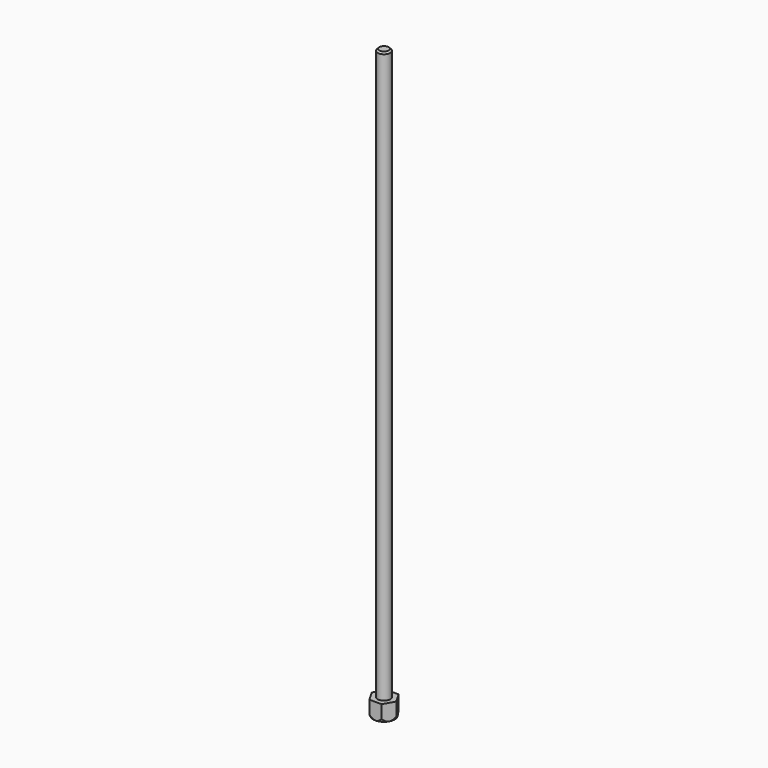
from build123d import *

# Parameters (mm, degrees)
F0_R     = 2.5
F0_R_2   = 1.9
F1_DEPTH = 5
F2_DEPTH = 179
F7_SIZE  = 0.5


with BuildPart() as f1:
    # F0 (on Top) → F1 (new body)
    with BuildSketch(Plane.XY):
        Polygon((3.75, 0), (1.875, 3.247595), (-1.875, 3.247595), (-3.75, 0), (-1.875, -3.247595), (1.875, -3.247595), align=None)
        Circle(F0_R, mode=Mode.SUBTRACT)
        Circle(F0_R)
        Circle(F0_R_2, mode=Mode.SUBTRACT)
    extrude(amount=F1_DEPTH)

    # F0 (on Top) → F2 (join)
    with BuildSketch(Plane.XY):
        Circle(F0_R_2)
    extrude(amount=F2_DEPTH)

    # F5 (on Front) → F6 (revolve, cut)
    with BuildSketch(Plane.XZ):
        Polygon((3.75, 1), (3.247595, 0), (3.75, 0), align=None)
    revolve(axis=Axis((0, 0, 1.934983), (0, 0, 1)), mode=Mode.SUBTRACT)

    # F7
    f7_edges = [f1.edges().sort_by_distance(p)[0] for p in [
        (-1.9, 0, 179),
    ]]
    chamfer(f7_edges, length=F7_SIZE)


solid = f1.part
